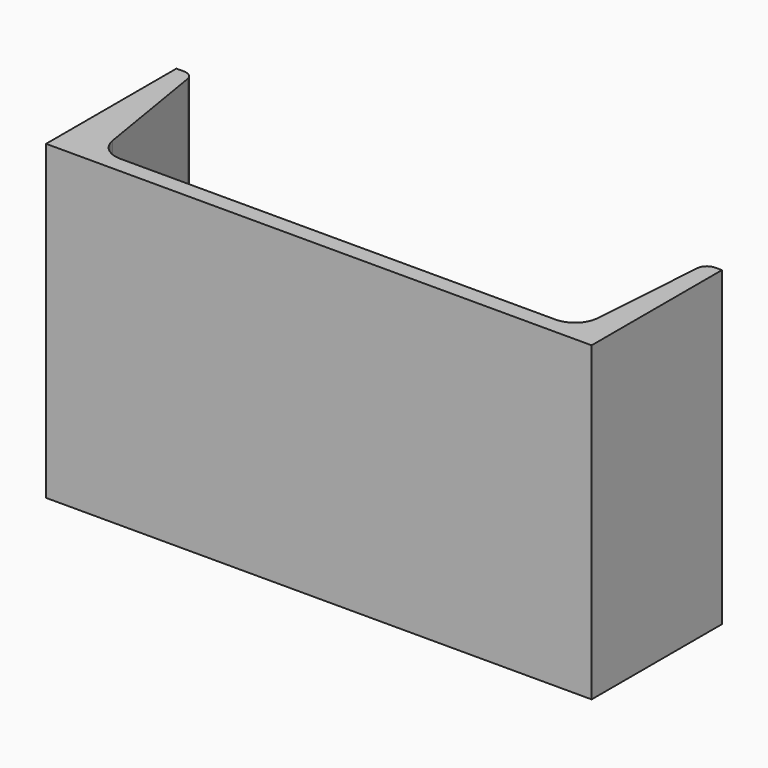
from build123d import *

# Parameters (mm, degrees)
F1_DEPTH = 101.6


with BuildPart() as f1:
    # F0 (on Top) → F1 (new body)
    with BuildSketch(Plane.XY):
        with BuildLine():
            Line((-89.186773, -0.016751), (88.613227, -0.016751))
            Line((88.613227, -0.016751), (88.613227, 53.069249))
            Line((88.613227, 53.069249), (86.358745, 53.069249))
            ThreePointArc((86.358745, 53.069249), (84.106649, 52.18205), (83.064762, 49.997207))
            Line((83.064762, 49.997207), (80.458159, 12.659636))
            ThreePointArc((80.458159, 12.659636), (77.973661, 7.449628), (72.603276, 5.334))
            Line((72.603276, 5.334), (-69.297198, 5.334))
            ThreePointArc((-69.297198, 5.334), (-74.391767, 7.204231), (-77.066214, 11.926489))
            Line((-77.066214, 11.926489), (-83.396749, 50.304656))
            ThreePointArc((-83.396749, 50.304656), (-84.518291, 52.284958), (-86.654724, 53.069249))
            Line((-86.654724, 53.069249), (-89.186773, 53.069249))
            Line((-89.186773, 53.069249), (-89.186773, -0.016751))
        make_face()
    extrude(amount=F1_DEPTH)


solid = f1.part
